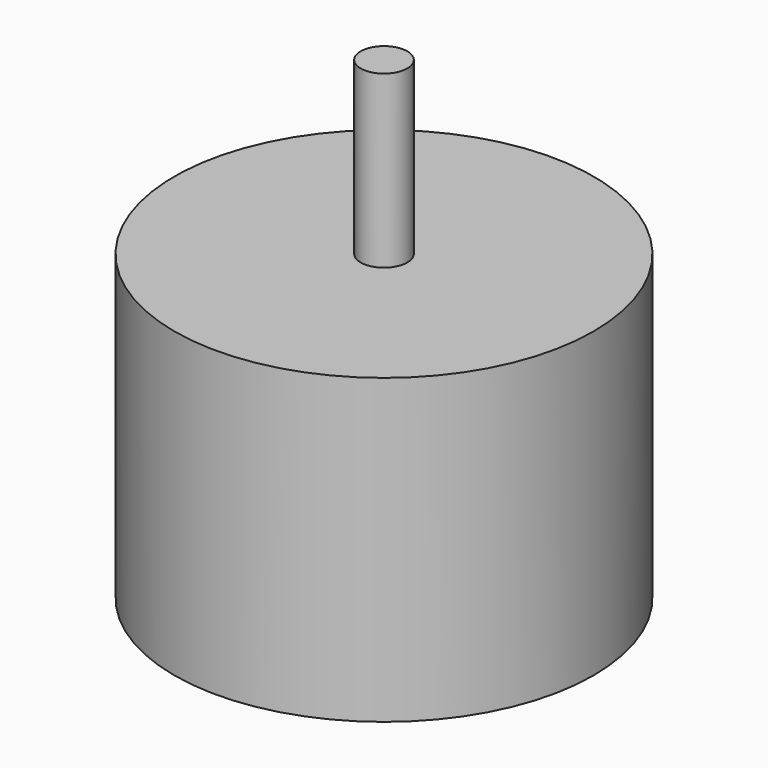
from build123d import *

# Parameters (mm, degrees)
CYLINDER063_R     = 1.5
CYLINDER063_DEPTH = 11
CYLINDER062_R     = 13.5
CYLINDER062_DEPTH = 19.5


with BuildPart() as servo_pot_shaft:
    # Cylinder063 → Cylinder063 (new body)
    with BuildSketch(Plane.XY.offset(19.5)):
        Circle(CYLINDER063_R)
    extrude(amount=CYLINDER063_DEPTH)


with BuildPart() as servo_pot:
    # Cylinder062 → Cylinder062 (new body)
    with BuildSketch(Plane.XY):
        Circle(CYLINDER062_R)
    extrude(amount=CYLINDER062_DEPTH)

    # Fusion027: union servo-pot-shaft
    add(servo_pot_shaft.part)


with BuildPart() as servo_pot_1:
    # Fusion027 placement: moved
    add(servo_pot.part.moved(Location((0, 0, 16.7))))


solid = servo_pot_1.part
